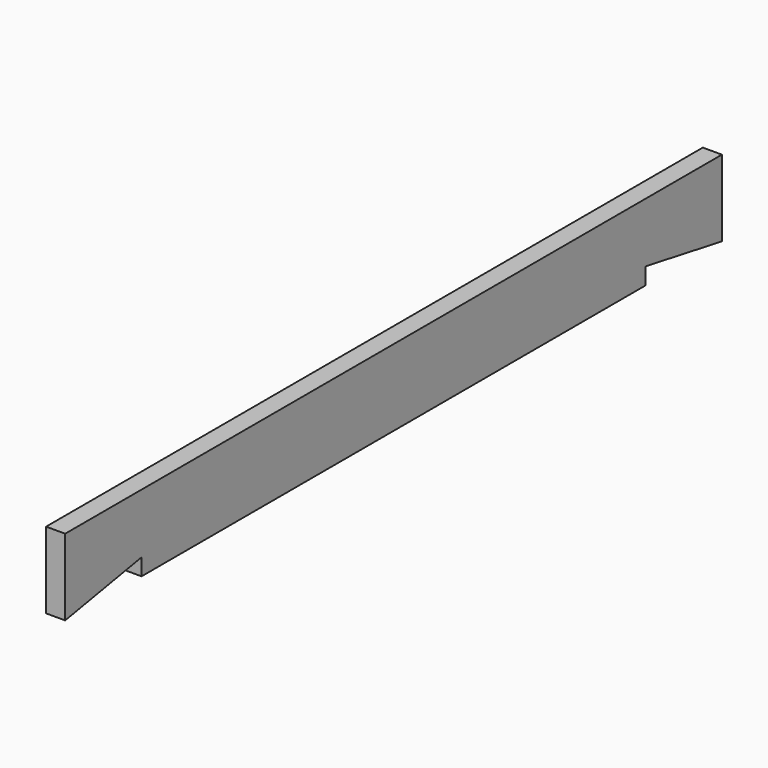
from build123d import *

# Parameters (mm, degrees)
F0_W     = 50
F0_H     = 200
F1_DEPTH = 2150
F4_DEPTH = 50
F6_DEPTH = 50


with BuildPart() as f1:
    # F0 (on Front) → F1 (new body)
    with BuildSketch(Plane.XZ):
        Rectangle(F0_W, F0_H)
    extrude(amount=F1_DEPTH)

    # F3 (on face) → F4 (cut)
    with BuildSketch(Plane.YZ.offset(25)):
        Polygon((-1900, -100), (-1900, -55.918255), (-2150, -100), align=None)
    extrude(amount=-F4_DEPTH, mode=Mode.SUBTRACT)

    # F5 (on face) → F6 (cut)
    with BuildSketch(Plane.YZ.offset(25)):
        Polygon((-250, -55.918255), (-250, -100), (0, -100), align=None)
    extrude(amount=-F6_DEPTH, mode=Mode.SUBTRACT)


solid = f1.part
